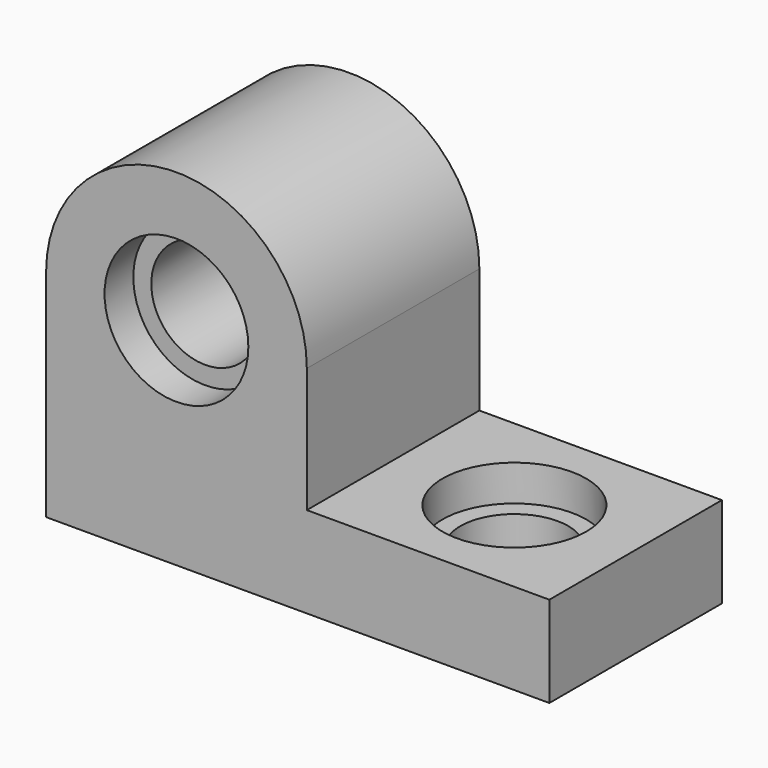
from build123d import *

# Parameters (mm, degrees)
F0_R     = 25.4
F0_R_2   = 19.05
F1_DEPTH = 76.2
F2_DEPTH = 12.7
F3_R     = 19.05
F4_DEPTH = 32.133529
F3_R_2   = 25.4
F5_DEPTH = 12.7


with BuildPart() as f1:
    # F0 (on Front) → F1 (new body)
    with BuildSketch(Plane.XZ):
        with BuildLine():
            Line((0, 76.2), (0, 0))
            Line((0, 0), (177.8, 0))
            Line((177.8, 0), (177.8, 32.132529))
            Line((177.8, 32.132529), (92.11325, 32.132529))
            Line((92.11325, 32.132529), (92.11325, 76.2))
            ThreePointArc((92.11325, 76.2), (46.056625, 122.256625), (0, 76.2))
        make_face()
        with Locations((46.056625, 76.2)):
            Circle(F0_R, mode=Mode.SUBTRACT)
        with Locations((46.056625, 76.2)):
            Circle(F0_R)
        with Locations((46.056625, 76.2)):
            Circle(F0_R_2, mode=Mode.SUBTRACT)
    extrude(amount=-F1_DEPTH)

    # F0 (on Front) → F2 (cut)
    with BuildSketch(Plane.XZ):
        with Locations((46.056625, 76.2)):
            Circle(F0_R)
        with Locations((46.056625, 76.2)):
            Circle(F0_R_2, mode=Mode.SUBTRACT)
    extrude(amount=-F2_DEPTH, mode=Mode.SUBTRACT)

    # F3 (on face) → F4 (cut, through all)
    with BuildSketch(Plane.XY.offset(32.132529)):
        with Locations((134.956625, 38.1)):
            Circle(F3_R)
    extrude(amount=-F4_DEPTH, mode=Mode.SUBTRACT)

    # F3 (on face) → F5 (cut)
    with BuildSketch(Plane.XY.offset(32.132529)):
        with Locations((134.956625, 38.1)):
            Circle(F3_R_2)
        with Locations((134.956625, 38.1)):
            Circle(F3_R, mode=Mode.SUBTRACT)
    extrude(amount=-F5_DEPTH, mode=Mode.SUBTRACT)


solid = f1.part
